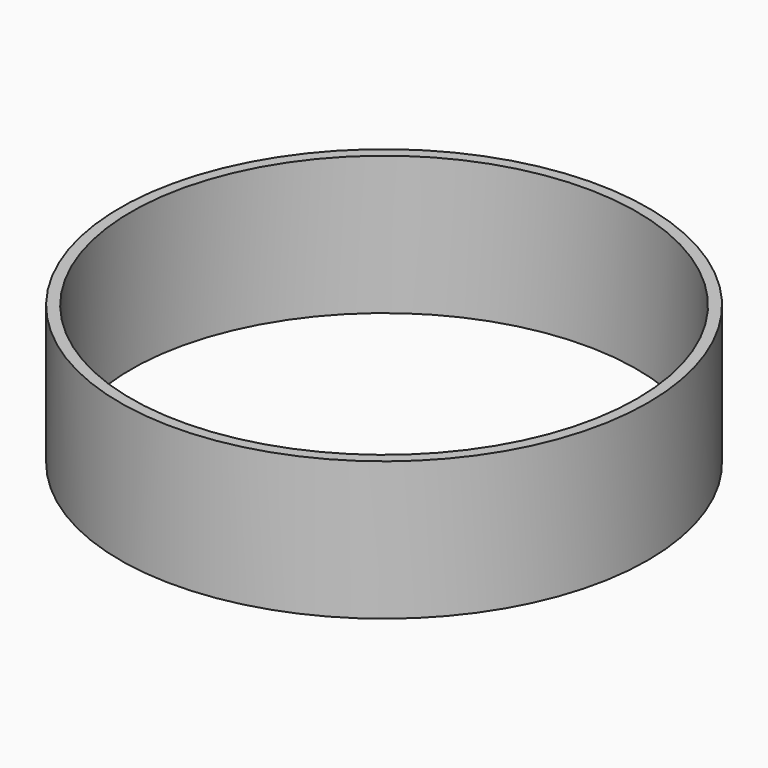
from build123d import *

# Parameters (mm, degrees)
CYLINDER008_R     = 73.025
CYLINDER008_DEPTH = 40
CYLINDER002_R     = 76.2
CYLINDER002_DEPTH = 40


with BuildPart() as chamberwall001:
    # Cylinder008 → Cylinder008 (new body)
    with BuildSketch(Plane(origin=(0, 148, 0), x_dir=(1, 0, 0), z_dir=(0, 0, 1))):
        Circle(CYLINDER008_R)
    extrude(amount=CYLINDER008_DEPTH)


with BuildPart() as chamberwall002:
    # Cylinder002 → Cylinder002 (new body)
    with BuildSketch(Plane(origin=(0, 148, 0), x_dir=(1, 0, 0), z_dir=(0, 0, 1))):
        Circle(CYLINDER002_R)
    extrude(amount=CYLINDER002_DEPTH)

    # Cut: cut ChamberWall001
    add(chamberwall001.part, mode=Mode.SUBTRACT)


with BuildPart() as chamberwall002_1:
    # Cut placement: moved
    add(chamberwall002.part.moved(Location((0, 23, 19))))


solid = chamberwall002_1.part
